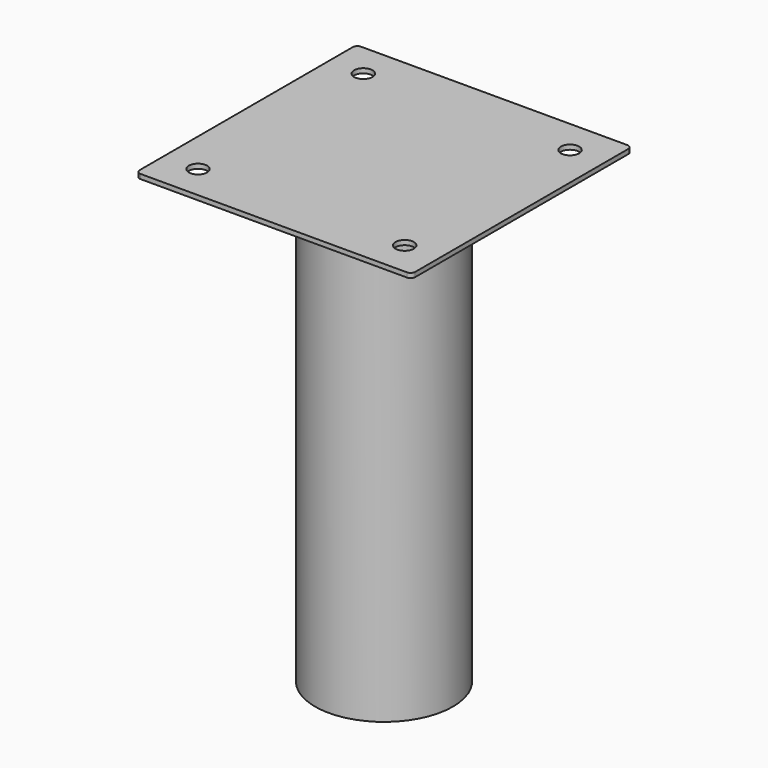
from build123d import *

# Parameters (mm, degrees)
F0_R     = 2
F1_DEPTH = 1
F2_R     = 15
F3_DEPTH = 99


with BuildPart() as f1:
    # F0 (on Top) → F1 (new body)
    with BuildSketch(Plane.XY):
        with BuildLine():
            ThreePointArc((-30, -29), (-29.707107, -29.707107), (-29, -30))
            Line((-29, -30), (29, -30))
            ThreePointArc((29, -30), (29.707107, -29.707107), (30, -29))
            Line((30, -29), (30, 29))
            ThreePointArc((30, 29), (29.707107, 29.707107), (29, 30))
            Line((29, 30), (-29, 30))
            ThreePointArc((-29, 30), (-29.707107, 29.707107), (-30, 29))
            Line((-30, 29), (-30, -29))
        make_face()
        with Locations((-22.5, -22.5)):
            Circle(F0_R, mode=Mode.SUBTRACT)
        with Locations((22.5, -22.5)):
            Circle(F0_R, mode=Mode.SUBTRACT)
        with Locations((-22.5, 22.5)):
            Circle(F0_R, mode=Mode.SUBTRACT)
        with Locations((22.5, 22.5)):
            Circle(F0_R, mode=Mode.SUBTRACT)
    extrude(amount=F1_DEPTH)

    # F2 (on face) → F3 (join)
    with BuildSketch(Plane(origin=(0, 0, 0), x_dir=(1, 0, 0), z_dir=(0, 0, -1))):
        Circle(F2_R)
    extrude(amount=F3_DEPTH)


solid = f1.part
